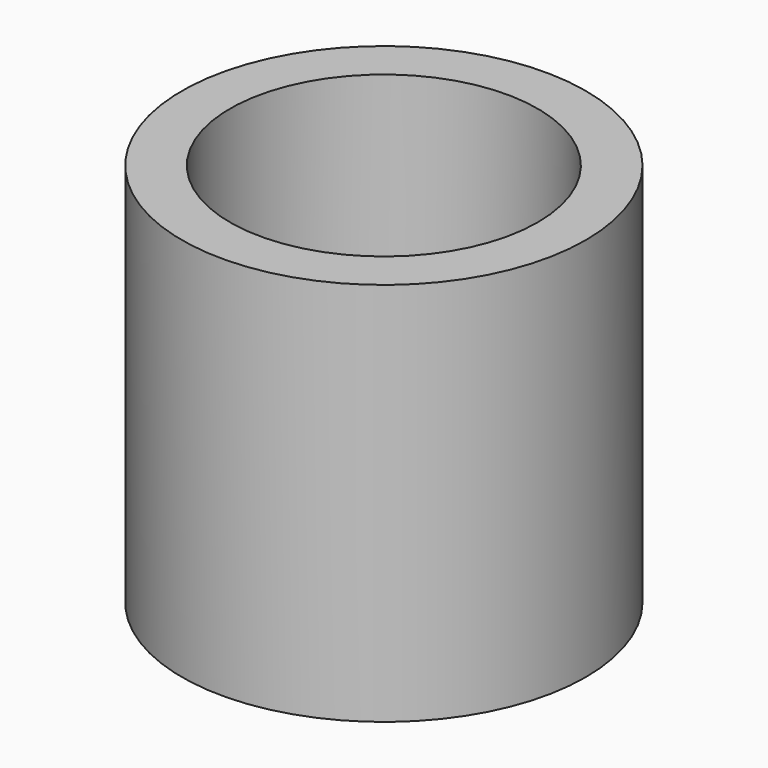
from build123d import *

# Parameters (mm, degrees)
F0_R     = 26.67
F0_R_2   = 20.32
F1_DEPTH = 50.8
F2_T     = -6.35


with BuildPart() as f1:
    # F0 (on Top) → F1 (new body)
    with BuildSketch(Plane.XY):
        Circle(F0_R)
        Circle(F0_R_2, mode=Mode.SUBTRACT)
        Circle(F0_R_2)
    extrude(amount=F1_DEPTH)

    # F2
    f2_openings = [f1.faces().sort_by_distance(p)[0] for p in [
        (0, 0, 50.8),
    ]]
    offset(amount=F2_T, openings=f2_openings)


solid = f1.part
